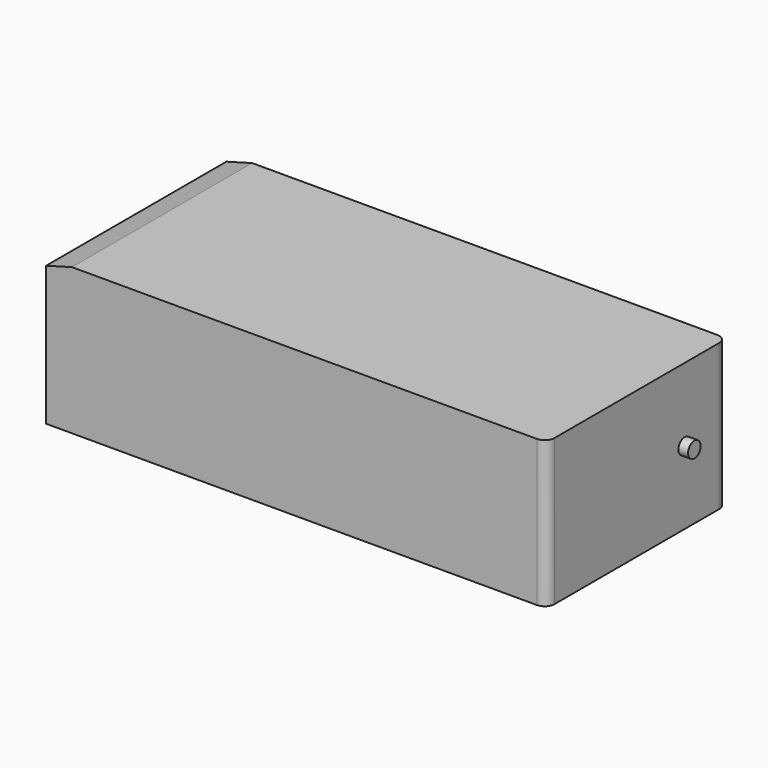
from build123d import *

# Parameters (mm, degrees)
F0_W     = 51.54
F0_H     = 23.2
F1_DEPTH = 7.53
F2_R     = 1
F3_R     = 0.807507
F4_DEPTH = 1
F6_DEPTH = 23.2


with BuildPart() as f1:
    # F0 (on Top) → F1 (new body, symmetric)
    with BuildSketch(Plane.XY):
        Rectangle(F0_W, F0_H)
    extrude(amount=F1_DEPTH, both=True)

    # F2
    f2_edges = [f1.edges().sort_by_distance(p)[0] for p in [
        (25.77, 11.6, 0),
        (25.77, -11.6, 0),
    ]]
    fillet(f2_edges, radius=F2_R)

    # F3 (on face) → F4 (join)
    with BuildSketch(Plane.YZ.offset(25.77)):
        with Locations((6.153882, 0)):
            Circle(F3_R)
    extrude(amount=F4_DEPTH)

    # F5 (on face) → F6 (cut, through all)
    with BuildSketch(Plane.XZ.offset(11.6)):
        Polygon((-25.77, 7.53), (-25.77, 6.792126), (-23.108594, 7.53), align=None)
    extrude(amount=-F6_DEPTH, mode=Mode.SUBTRACT)


solid = f1.part
